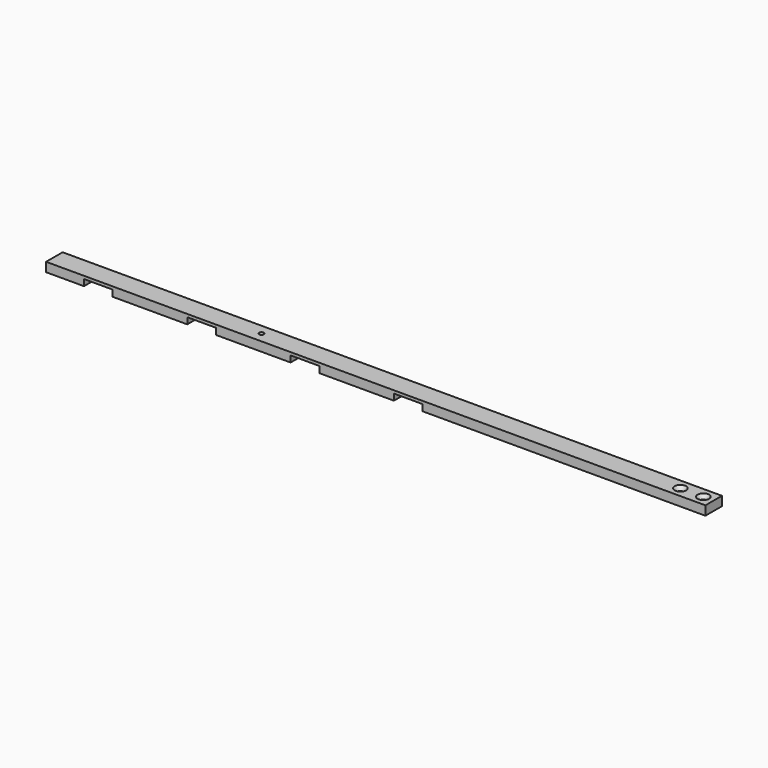
from build123d import *

# Parameters (mm, degrees)
SKETCH044_W     = 574.323184
SKETCH044_H     = 18
PAD022_DEPTH    = 8
SKETCH049_R     = 2
POCKET031_DEPTH = 8.001
CHAMFER017_SIZE = 3
SKETCH050_W     = 25
SKETCH050_H     = 18
POCKET032_DEPTH = 5.5
SKETCH070_R     = 2
POCKET045_DEPTH = 8.001
CHAMFER029_SIZE = 3


with BuildPart() as part:
    # Sketch044 → Pad022 (new body)
    with BuildSketch(Plane.XY):
        with Locations((57.838408, -99)):
            Rectangle(SKETCH044_W, SKETCH044_H)
    extrude(amount=PAD022_DEPTH)

    # Sketch049 (on Face6 of Pad022) → Pocket031 (cut, through all)
    with BuildSketch(Plane.XY.offset(8)):
        with Locations((316, -99)):
            Circle(SKETCH049_R)
        with Locations((336, -99)):
            Circle(SKETCH049_R)
    extrude(amount=-POCKET031_DEPTH, mode=Mode.SUBTRACT)

    # Chamfer017
    chamfer017_edges = [part.edges().sort_by_distance(p)[0] for p in [
        (334, -99, 8),
        (314, -99, 8),
    ]]
    chamfer(chamfer017_edges, length=CHAMFER017_SIZE)

    # Sketch050 (on Face9 of Chamfer017) → Pocket032 (cut)
    with BuildSketch(Plane(origin=(0, 0, 0), x_dir=(1, 0, 0), z_dir=(0, 0, -1))):
        with Locations((-183.823184, 99)):
            Rectangle(SKETCH050_W, SKETCH050_H)
        with Locations((-93.823184, 99)):
            Rectangle(SKETCH050_W, SKETCH050_H)
        with Locations((-3.823184, 99)):
            Rectangle(SKETCH050_W, SKETCH050_H)
        with Locations((86.176816, 99)):
            Rectangle(SKETCH050_W, SKETCH050_H)
    extrude(amount=-POCKET032_DEPTH, mode=Mode.SUBTRACT)

    # Sketch070 (on Face1 of Pocket032) → Pocket045 (cut, through all)
    with BuildSketch(Plane.XY.offset(8)):
        with Locations((-48.823184, -99)):
            Circle(SKETCH070_R)
    extrude(amount=-POCKET045_DEPTH, mode=Mode.SUBTRACT)

    # Chamfer029
    chamfer029_edges = [part.edges().sort_by_distance(p)[0] for p in [
        (-50.823184, -99, 0),
    ]]
    chamfer(chamfer029_edges, length=CHAMFER029_SIZE)


with BuildPart() as part_1:
    # Body016 placement: moved
    add(part.part.moved(Location((0, 0, 15.5))))


solid = part_1.part
